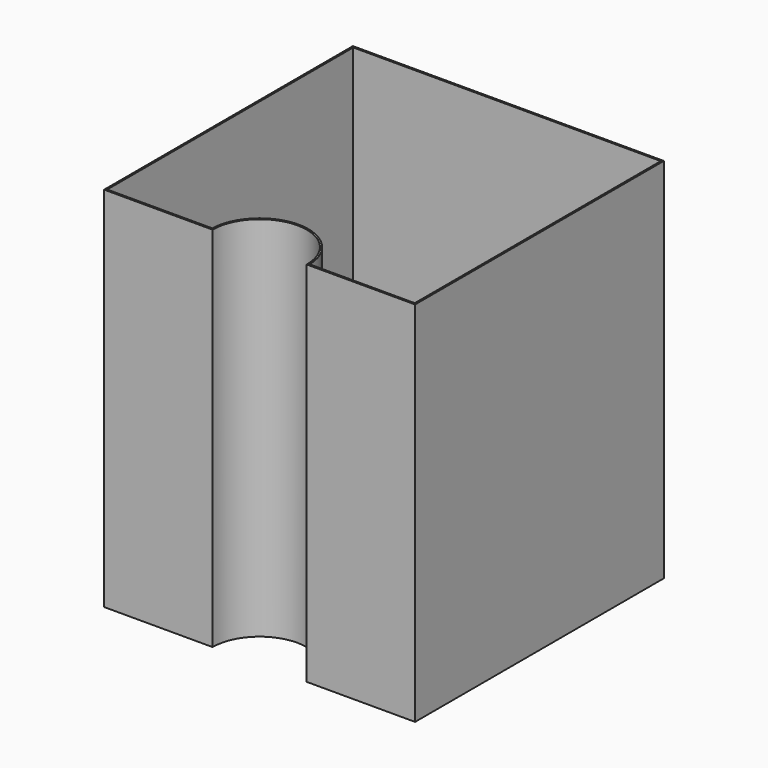
from build123d import *

# Parameters (mm, degrees)
F1_DEPTH = 195


with BuildPart() as f1:
    # F0 (on Top) → F1 (new body)
    with BuildSketch(Plane.XY):
        with BuildLine():
            Line((0, 165), (0, 0))
            Line((0, 0), (57.5, 0))
            ThreePointArc((57.5, 0), (82.5, 25), (107.5, 0))
            Line((107.5, 0), (165, 0))
            Line((165, 0), (165, 165))
            Line((165, 165), (0, 165))
        make_face()
        with BuildLine():
            Line((56.615642, 0.9), (0.9, 0.9))
            Line((0.9, 0.9), (0.9, 164.1))
            Line((0.9, 164.1), (164.1, 164.1))
            Line((164.1, 164.1), (164.1, 0.9))
            Line((164.1, 0.9), (108.384358, 0.9))
            ThreePointArc((108.384358, 0.9), (82.5, 25.9), (56.615642, 0.9))
        make_face(mode=Mode.SUBTRACT)
    extrude(amount=F1_DEPTH)


solid = f1.part
